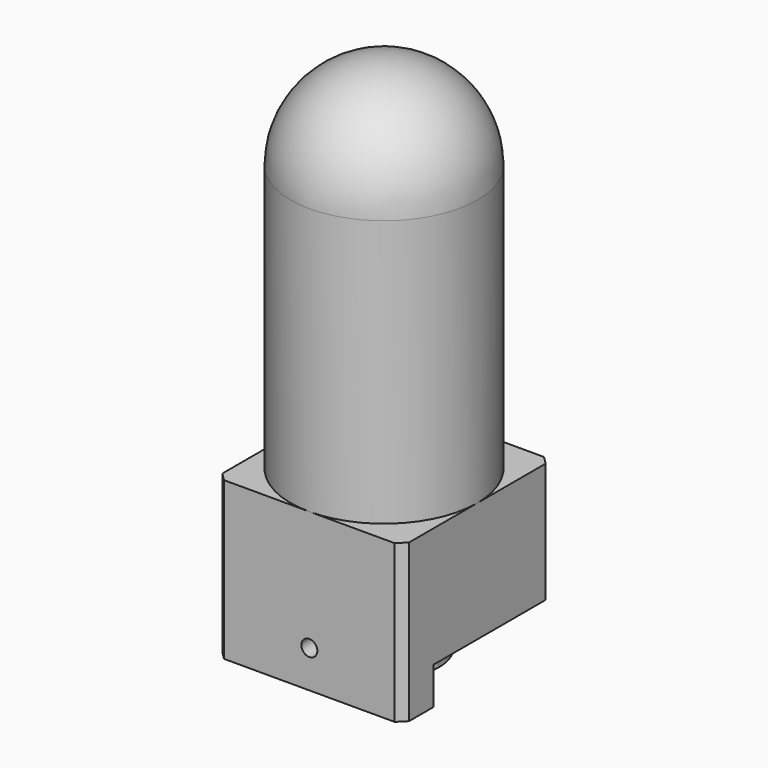
from build123d import *

# Parameters (mm, degrees)
SKETCH_W         = 70
SKETCH_H         = 70
PAD_DEPTH        = 45
SKETCH001_R      = 35
PAD001_DEPTH     = 100
POCKET_DEPTH     = 70
REVOLUTION_ANGLE = -180
SKETCH004_R      = 20.5
PAD002_DEPTH     = 14
SKETCH005_R      = 10
PAD003_DEPTH     = 14.5
PAD004_DEPTH     = 14
SKETCH007_R      = 3
POCKET001_DEPTH  = 10


with BuildPart() as part:
    # Sketch → Pad (new body)
    with BuildSketch(Plane.XY):
        with Locations((0, 35)):
            Rectangle(SKETCH_W, SKETCH_H)
    extrude(amount=PAD_DEPTH)

    # Sketch001 → Pad001 (new body)
    with BuildSketch(Plane.XY.offset(45)):
        with Locations((0, 35)):
            Circle(SKETCH001_R)
    extrude(amount=PAD001_DEPTH)

    # Sketch002 → Pocket (cut)
    with BuildSketch(Plane(origin=(0, 0, 0), x_dir=(1, 0, 0), z_dir=(0, 0, -1))):
        Polygon((35, 0), (35, -3), (32, 0), align=None)
        Polygon((35, -70), (35, -67), (32, -70), align=None)
        Polygon((-35, -70), (-32, -70), (-35, -67), align=None)
        Polygon((-35, 0), (-32, 0), (-35, -3), align=None)
    extrude(amount=-POCKET_DEPTH, mode=Mode.SUBTRACT)

    # Sketch003 → Revolution (revolve)
    with BuildSketch(Plane.XY.offset(145)):
        with BuildLine():
            ThreePointArc((0, 0), (35, 35), (0, 70))
            Line((0, 70), (0, 0))
        make_face()
    revolve(axis=Axis((0, 0, 145), (0, 1, 0)), revolution_arc=REVOLUTION_ANGLE)

    # Sketch004 → Pad002 (new body)
    with BuildSketch(Plane(origin=(0, 0, 0), x_dir=(1, 0, 0), z_dir=(0, 0, -1))):
        with Locations((0, -35)):
            Circle(SKETCH004_R)
    extrude(amount=PAD002_DEPTH)

    # Sketch005 → Pad003 (new body)
    with BuildSketch(Plane(origin=(0, 0, -14), x_dir=(1, 0, 0), z_dir=(0, 0, -1))):
        with Locations((0, -35)):
            Circle(SKETCH005_R)
    extrude(amount=PAD003_DEPTH)

    # Sketch006 → Pad004 (new body)
    with BuildSketch(Plane(origin=(0, 0, 0), x_dir=(1, 0, 0), z_dir=(0, 0, -1))):
        Polygon((35, -3), (35, -14.5), (-35, -14.5), (-35, -3), (-32, 0), (32, 0), align=None)
    extrude(amount=PAD004_DEPTH)

    # Sketch007 → Pocket001 (cut)
    with BuildSketch(Plane.XZ):
        Circle(SKETCH007_R)
    extrude(amount=-POCKET001_DEPTH, mode=Mode.SUBTRACT)


solid = part.part
